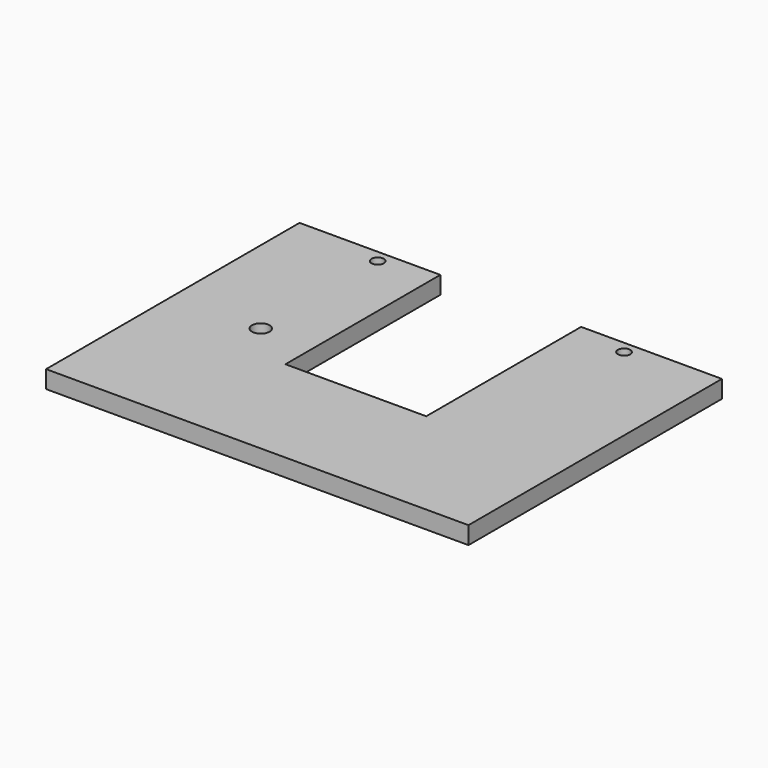
from build123d import *

# Parameters (mm, degrees)
F1_DEPTH = 12.7
F3_R     = 6.35
F4_DEPTH = 25.4
F2_R     = 4.445
F5_DEPTH = 25.4
F6_W     = 8.89
F6_H     = 25.4
F7_DEPTH = 6.35


with BuildPart() as f1:
    # F0 (on Top) → F1 (new body)
    with BuildSketch(Plane.XY):
        Polygon((152.4, -114.3), (152.4, 114.3), (50.8, 114.3), (50.8, -25.4), (-50.8, -25.4), (-50.8, 114.3), (-152.4, 114.3), (-152.4, -114.3), align=None)
    extrude(amount=F1_DEPTH)

    # F3 (on face) → F4 (cut)
    with BuildSketch(Plane.XY.offset(12.7)):
        with Locations((-88.9, 0)):
            Circle(F3_R)
    extrude(amount=-F4_DEPTH, mode=Mode.SUBTRACT)

    # F2 (on face) → F5 (cut)
    with BuildSketch(Plane.XY.offset(12.7)):
        with Locations((-88.9, 105.41)):
            Circle(F2_R)
        with Locations((88.9, 105.41)):
            Circle(F2_R)
    extrude(amount=-F5_DEPTH, mode=Mode.SUBTRACT)

    # F6 (on face) → F7 (join)
    with BuildSketch(Plane(origin=(0, 0, 0), x_dir=(1, 0, 0), z_dir=(0, 0, -1))):
        Polygon((83.7010406738, -39.3148613891), (77.4148613891, -45.6010406738), (95.3753736312, -63.561552916), (101.661552916, -57.2753736312), align=None)
        with Locations((0, 50.8)):
            Rectangle(F6_W, F6_H)
        Polygon((-95.3753736312, -63.561552916), (-77.4148613891, -45.6010406738), (-83.7010406738, -39.3148613891), (-101.661552916, -57.2753736312), align=None)
    extrude(amount=F7_DEPTH)


solid = f1.part
